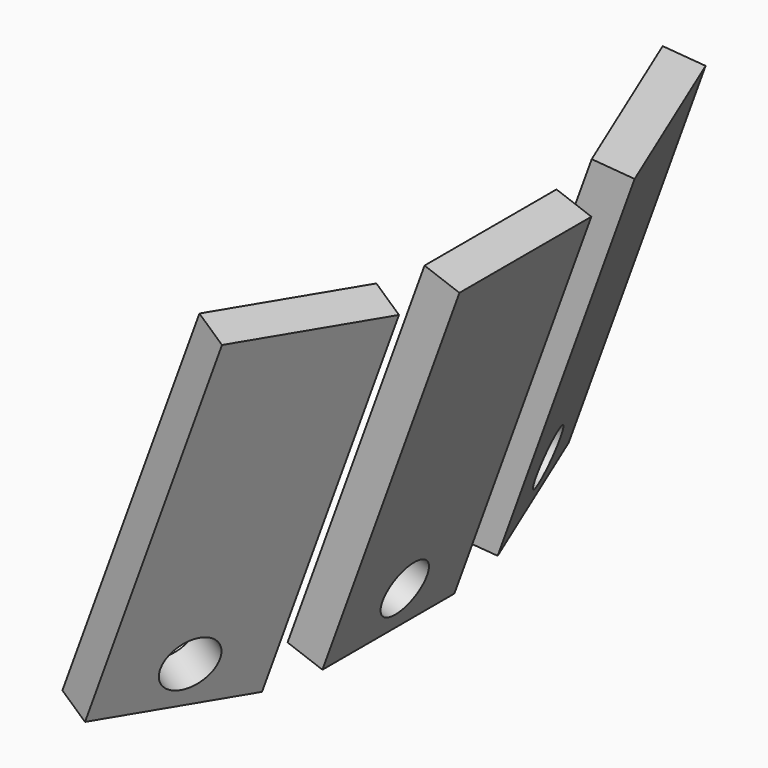
from build123d import *

# Parameters (mm, degrees)
CYLINDER274_R             = 1.5
CYLINDER274_DEPTH         = 10
BOX193_W                  = 2
BOX193_H                  = 8.89
BOX193_DEPTH              = 21.59
CUT128_PLACEMENT_ANGLE    = 20
CYLINDER277_R             = 1.5
CYLINDER277_DEPTH         = 10
BOX196_W                  = 2
BOX196_H                  = 8.89
BOX196_DEPTH              = 21.59
CUT129_PLACEMENT_ANGLE    = 20
CYLINDER273_R             = 1.5
CYLINDER273_DEPTH         = 10
BOX192_W                  = 2
BOX192_H                  = 8.89
BOX192_DEPTH              = 21.59
FUSION194_PLACEMENT_ANGLE = 20


with BuildPart() as zylinder276:
    # Cylinder274 → Cylinder274 (new body)
    with BuildSketch(Plane(origin=(57, 0, -11.55), x_dir=(0, 0, -1), z_dir=(1, 0, 0))):
        Circle(CYLINDER274_R)
    extrude(amount=CYLINDER274_DEPTH)


with BuildPart() as cut128:
    # Box193 → Box193 (new body)
    with BuildSketch(Plane(origin=(61.5, -4.5, -14), x_dir=(1, 0, 0), z_dir=(0, 0, 1))):
        with Locations((1, 4.445)):
            Rectangle(BOX193_W, BOX193_H)
    extrude(amount=BOX193_DEPTH)

    # Cut128: cut Zylinder276
    add(zylinder276.part, mode=Mode.SUBTRACT)


with BuildPart() as cut128_1:
    # Cut128 placement: moved
    add(cut128.part.moved(Location((-0.210743, 9.654304, 0))).rotate(Axis((-0.210743, 9.654304, 0), (0, 0, -1)), CUT128_PLACEMENT_ANGLE))


with BuildPart() as zylinder279:
    # Cylinder277 → Cylinder277 (new body)
    with BuildSketch(Plane(origin=(57, 0, -11.55), x_dir=(0, 0, -1), z_dir=(1, 0, 0))):
        Circle(CYLINDER277_R)
    extrude(amount=CYLINDER277_DEPTH)


with BuildPart() as cut129:
    # Box196 → Box196 (new body)
    with BuildSketch(Plane(origin=(61.5, -4.5, -14), x_dir=(1, 0, 0), z_dir=(0, 0, 1))):
        with Locations((1, 4.445)):
            Rectangle(BOX196_W, BOX196_H)
    extrude(amount=BOX196_DEPTH)

    # Cut129: cut Zylinder279
    add(zylinder279.part, mode=Mode.SUBTRACT)


with BuildPart() as cut129_1:
    # Cut129 placement: moved
    add(cut129.part.moved(Location((-0.210743, 9.654304, 0))).rotate(Axis((-0.210743, 9.654304, 0), (0, 0, -1)), CUT129_PLACEMENT_ANGLE))


with BuildPart() as part_mirroring008:
    # Part__Mirroring008: instance of Cut129
    add(cut129_1.part.mirror(Plane(origin=(0, 0, 0), x_dir=(1, 0, 0), z_dir=(0, 1, 0))))


with BuildPart() as zylinder275:
    # Cylinder273 → Cylinder273 (new body)
    with BuildSketch(Plane(origin=(57, 0, -11.55), x_dir=(0, 0, -1), z_dir=(1, 0, 0))):
        Circle(CYLINDER273_R)
    extrude(amount=CYLINDER273_DEPTH)


with BuildPart() as obj1:
    # Box192 → Box192 (new body)
    with BuildSketch(Plane(origin=(61.5, -4.5, -14), x_dir=(1, 0, 0), z_dir=(0, 0, 1))):
        with Locations((1, 4.445)):
            Rectangle(BOX192_W, BOX192_H)
    extrude(amount=BOX192_DEPTH)

    # Cut127: cut Zylinder275
    add(zylinder275.part, mode=Mode.SUBTRACT)


with BuildPart() as obj1_1:
    # Cut127 placement: moved
    add(obj1.part.moved(Location((-2, 0, 0))))

    # Fusion194: union Cut128, Part__Mirroring008
    add(cut128_1.part)
    add(part_mirroring008.part)


with BuildPart() as obj1_2:
    # Fusion194 placement: moved
    add(obj1_1.part.moved(Location((4.58307, 0, 12.591881))).rotate(Axis((4.58307, 0, 12.591881), (0, 1, 0)), FUSION194_PLACEMENT_ANGLE))


solid = obj1_2.part
